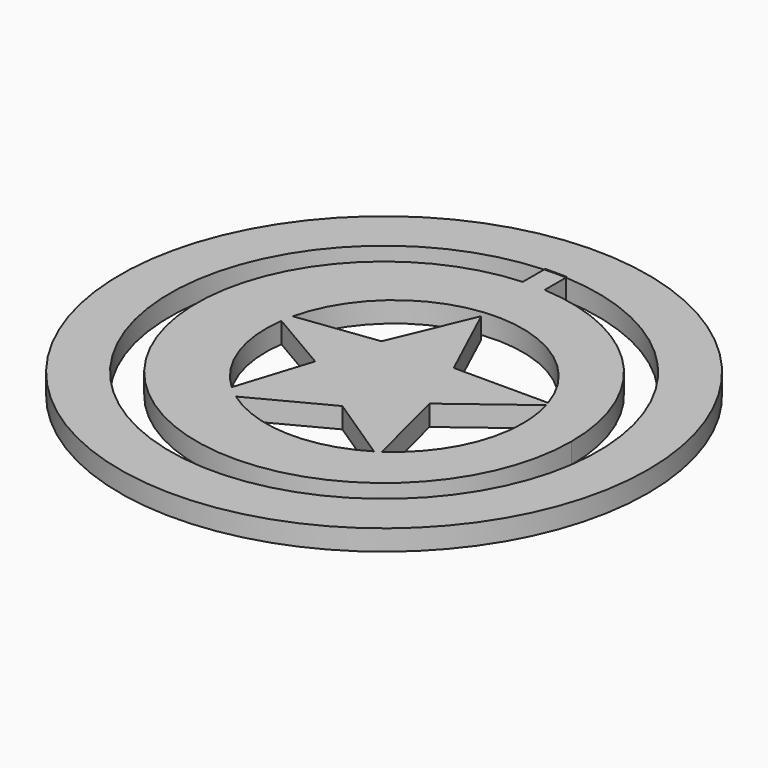
from build123d import *

# Parameters (mm, degrees)
F0_R     = 64.0956088901
F1_DEPTH = 5


with BuildPart() as f1:
    # F0 (on Top) → F1 (new body)
    with BuildSketch(Plane.XY):
        with Locations((0, -6.5701645799)):
            Circle(F0_R)
        with BuildLine():
            ThreePointArc((2.6495658708, 45.3372995925), (37.6770243961, 29.2327245322), (51.975042435, -6.5701645799))
            ThreePointArc((51.975042435, -6.5701645799), (-35.8028891121, -44.247188976), (-2.6495658708, 45.3372995925))
            Line((-2.6495658708, 45.3372995925), (-2.6495658708, 45.6765414602))
            Line((-2.6495658708, 45.6765414602), (2.6495658708, 45.6765414602))
            Line((2.6495658708, 45.6765414602), (2.6495658708, 45.3372995925))
        make_face(mode=Mode.SUBTRACT)
    extrude(amount=F1_DEPTH)


with BuildPart() as f1b:
    # F0 (on Top) → F1, piece 2 (new body)
    with BuildSketch(Plane.XY):
        with BuildLine():
            ThreePointArc((45.4924977003, -6.5701645799), (33.0915602253, 24.647074069), (2.6495658708, 38.8451098078))
            Line((2.6495658708, 38.8451098078), (-2.6495658708, 38.8451098078))
            ThreePointArc((-2.6495658708, 38.8451098078), (-31.2172386489, -39.6617248052), (45.4924977003, -6.5701645799))
        make_face()
        with BuildLine():
            Line((-28.3986768797, -2.2564090332), (-32.2668068111, 0))
            Line((-32.2668068111, 0), (-27.8716769403, 0.562791044))
            ThreePointArc((-27.8716769403, 0.562791044), (1.1824688453, 24.5833222554), (32.1362642374, 3.0660766643))
            Line((32.1362642374, 3.0660766643), (33.7268449366, 3.0660766643))
            Line((33.7268449366, 3.0660766643), (32.43518336, 2.0923626553))
            ThreePointArc((32.43518336, 2.0923626553), (33.3542558204, -2.1956347645), (33.6626467299, -6.5701645799))
            ThreePointArc((33.6626467299, -6.5701645799), (30.0587030706, -21.1220617558), (20.0799809754, -32.3100565119))
            Line((20.0799809754, -32.3100565119), (20.5865129828, -34.3108586967))
            Line((20.5865129828, -34.3108586967), (18.808230216, -33.1348970891))
            ThreePointArc((18.808230216, -33.1348970891), (1.3652109778, -37.7307378925), (-15.7040251778, -31.8979126852))
            Line((-15.7040251778, -31.8979126852), (-20.2945079654, -34.3108586967))
            Line((-20.2945079654, -34.3108586967), (-18.743826095, -29.4107041681))
            ThreePointArc((-18.743826095, -29.4107041681), (-26.8967409255, -17.0159516564), (-28.3986768797, -2.2564090332))
        make_face(mode=Mode.SUBTRACT)
        with BuildLine():
            ThreePointArc((45.4924977003, -6.5701645799), (33.0915602253, 24.647074069), (2.6495658708, 38.8451098078))
            Line((2.6495658708, 38.8451098078), (-2.6495658708, 38.8451098078))
            ThreePointArc((-2.6495658708, 38.8451098078), (-31.2172386489, -39.6617248052), (45.4924977003, -6.5701645799))
        make_face()
        with BuildLine():
            Line((-28.3986768797, -2.2564090332), (-32.2668068111, 0))
            Line((-32.2668068111, 0), (-27.8716769403, 0.562791044))
            ThreePointArc((-27.8716769403, 0.562791044), (1.1824688453, 24.5833222554), (32.1362642374, 3.0660766643))
            Line((32.1362642374, 3.0660766643), (33.7268449366, 3.0660766643))
            Line((33.7268449366, 3.0660766643), (32.43518336, 2.0923626553))
            ThreePointArc((32.43518336, 2.0923626553), (33.3542558204, -2.1956347645), (33.6626467299, -6.5701645799))
            ThreePointArc((33.6626467299, -6.5701645799), (30.0587030706, -21.1220617558), (20.0799809754, -32.3100565119))
            Line((20.0799809754, -32.3100565119), (20.5865129828, -34.3108586967))
            Line((20.5865129828, -34.3108586967), (18.808230216, -33.1348970891))
            ThreePointArc((18.808230216, -33.1348970891), (1.3652109778, -37.7307378925), (-15.7040251778, -31.8979126852))
            Line((-15.7040251778, -31.8979126852), (-20.2945079654, -34.3108586967))
            Line((-20.2945079654, -34.3108586967), (-18.743826095, -29.4107041681))
            ThreePointArc((-18.743826095, -29.4107041681), (-26.8967409255, -17.0159516564), (-28.3986768797, -2.2564090332))
        make_face(mode=Mode.SUBTRACT)
        with BuildLine():
            Line((-8.3222091198, 3.0660766643), (-27.8716769403, 0.562791044))
            ThreePointArc((-27.8716769403, 0.562791044), (-28.1676083174, -0.8407465126), (-28.3986768797, -2.2564090332))
            Line((-28.3986768797, -2.2564090332), (-12.9943247885, -11.2422807142))
            Line((-12.9943247885, -11.2422807142), (-18.743826095, -29.4107041681))
            ThreePointArc((-18.743826095, -29.4107041681), (-17.263127289, -30.7022196568), (-15.7040251778, -31.8979126852))
            Line((-15.7040251778, -31.8979126852), (2.4820647668, -22.3385579884))
            Line((2.4820647668, -22.3385579884), (18.808230216, -33.1348970891))
            ThreePointArc((18.808230216, -33.1348970891), (19.4491187119, -32.7302060933), (20.0799809754, -32.3100565119))
            Line((20.0799809754, -32.3100565119), (14.7463688627, -11.2422807142))
            Line((14.7463688627, -11.2422807142), (32.43518336, 2.0923626553))
            ThreePointArc((32.43518336, 2.0923626553), (32.2897000543, 2.580440325), (32.1362642374, 3.0660766643))
            Line((32.1362642374, 3.0660766643), (9.1982306913, 3.0660766643))
            Line((9.1982306913, 3.0660766643), (0, 22.9225717485))
            Line((0, 22.9225717485), (-8.3222091198, 3.0660766643))
        make_face()
        with BuildLine():
            Line((2.6495658708, 38.8451098078), (2.6495658708, 45.3372995925))
            ThreePointArc((2.6495658708, 45.3372995925), (0, 45.4048778551), (-2.6495658708, 45.3372995925))
            Line((-2.6495658708, 45.3372995925), (-2.6495658708, 38.8451098078))
            ThreePointArc((-2.6495658708, 38.8451098078), (0, 38.9223331204), (2.6495658708, 38.8451098078))
        make_face()
        with BuildLine():
            ThreePointArc((-15.7040251778, -31.8979126852), (-17.263127289, -30.7022196568), (-18.743826095, -29.4107041681))
            Line((-18.743826095, -29.4107041681), (-20.2945079654, -34.3108586967))
            Line((-20.2945079654, -34.3108586967), (-15.7040251778, -31.8979126852))
        make_face()
        with BuildLine():
            Line((-27.8716769403, 0.562791044), (-32.2668068111, 0))
            Line((-32.2668068111, 0), (-28.3986768797, -2.2564090332))
            ThreePointArc((-28.3986768797, -2.2564090332), (-28.1676083174, -0.8407465126), (-27.8716769403, 0.562791044))
        make_face()
        with BuildLine():
            ThreePointArc((20.0799809754, -32.3100565119), (19.4491187119, -32.7302060933), (18.808230216, -33.1348970891))
            Line((18.808230216, -33.1348970891), (20.5865129828, -34.3108586967))
            Line((20.5865129828, -34.3108586967), (20.0799809754, -32.3100565119))
        make_face()
        with BuildLine():
            Line((33.7268449366, 3.0660766643), (32.1362642374, 3.0660766643))
            ThreePointArc((32.1362642374, 3.0660766643), (32.2897000543, 2.580440325), (32.43518336, 2.0923626553))
            Line((32.43518336, 2.0923626553), (33.7268449366, 3.0660766643))
        make_face()
        with BuildLine():
            Line((-2.6495658708, 38.8451098078), (2.6495658708, 38.8451098078))
            ThreePointArc((2.6495658708, 38.8451098078), (0, 38.9223331204), (-2.6495658708, 38.8451098078))
        make_face()
    extrude(amount=F1_DEPTH)


solid = Compound([f1.part, f1b.part])
